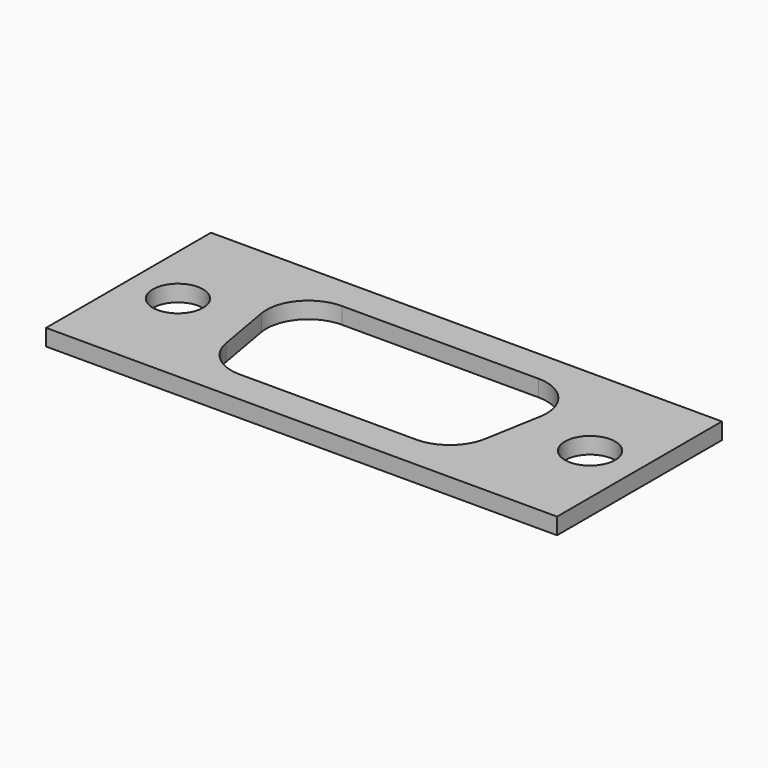
from build123d import *

# Parameters (mm, degrees)
F0_W     = 31
F0_H     = 12.5
F0_R     = 1.524
F1_DEPTH = 1


with BuildPart() as f1:
    # F0 (on Top) → F1 (new body)
    with BuildSketch(Plane.XY):
        Rectangle(F0_W, F0_H)
        with Locations((-12.5, 0)):
            Circle(F0_R, mode=Mode.SUBTRACT)
        with BuildLine():
            ThreePointArc((-8.461412, 1.268934), (-7.905753, 3.342681), (-5.96, 4.25))
            Line((-5.96, 4.25), (0, 4.25))
            Line((0, 4.25), (5.96, 4.25))
            ThreePointArc((5.96, 4.25), (7.905753, 3.342681), (8.461412, 1.268934))
            Line((8.461412, 1.268934), (7.858373, -2.151066))
            ThreePointArc((7.858373, -2.151066), (6.989642, -3.655753), (5.356962, -4.25))
            Line((5.356962, -4.25), (0, -4.25))
            Line((0, -4.25), (-5.356962, -4.25))
            ThreePointArc((-5.356962, -4.25), (-6.989642, -3.655753), (-7.858373, -2.151066))
            Line((-7.858373, -2.151066), (-8.461412, 1.268934))
        make_face(mode=Mode.SUBTRACT)
        with Locations((12.5, 0)):
            Circle(F0_R, mode=Mode.SUBTRACT)
    extrude(amount=F1_DEPTH)


solid = f1.part
